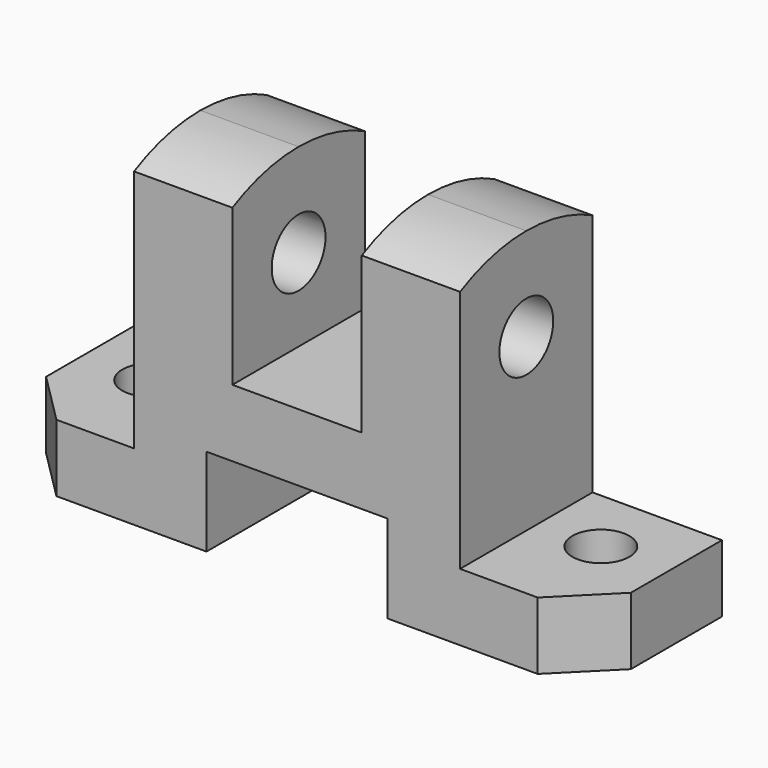
from build123d import *

# Parameters (mm, degrees)
F0_W     = 113
F0_H     = 64
F1_DEPTH = 32
F2_W     = 17.5
F2_H     = 17
F2_W_2   = 12.5
F2_H_2   = 34
F2_W_3   = 25
F2_H_3   = 51
F3_DEPTH = 32.001
F5_DEPTH = 88.001
F6_R     = 5.5
F7_DEPTH = 64.001
F8_R     = 6.5
F9_DEPTH = 88.001


with BuildPart() as f1:
    # F0 (on Front) → F1 (new body)
    with BuildSketch(Plane.XZ):
        with Locations((56.5, 32)):
            Rectangle(F0_W, F0_H)
    extrude(amount=F1_DEPTH)

    # F2 (on face) → F3 (cut, through all)
    with BuildSketch(Plane.XZ.offset(32)):
        with Locations((47.75, 8.5)):
            Rectangle(F2_W, F2_H)
        with Locations((65.25, 8.5)):
            Rectangle(F2_W, F2_H)
        with Locations((50.25, 47)):
            Rectangle(F2_W_2, F2_H_2)
        with Locations((62.75, 47)):
            Rectangle(F2_W_2, F2_H_2)
        with Locations((12.5, 38.5)):
            Rectangle(F2_W_3, F2_H_3)
        with Locations((100.5, 38.5)):
            Rectangle(F2_W_3, F2_H_3)
    extrude(amount=-F3_DEPTH, mode=Mode.SUBTRACT)

    # F4 (on face) → F5 (cut, through all)
    with BuildSketch(Plane.YZ.offset(88)):
        with BuildLine():
            ThreePointArc((-32, 60.128765), (-24.230833, 63.018427), (-16, 64))
            Line((-16, 64), (-32, 64))
            Line((-32, 64), (-32, 60.128765))
        make_face()
        with BuildLine():
            ThreePointArc((-16, 64), (-7.769167, 63.018427), (0, 60.128765))
            Line((0, 60.128765), (0, 64))
            Line((0, 64), (-16, 64))
        make_face()
    extrude(amount=-F5_DEPTH, mode=Mode.SUBTRACT)

    # F6 (on Top) → F7 (cut, through all)
    with BuildSketch(Plane.XY):
        Polygon((10, -32), (0, -22), (0, -32), align=None)
        Polygon((113, -32), (113, -22), (103, -32), align=None)
        with Locations((13, -13)):
            Circle(F6_R)
        with Locations((100, -12.990381)):
            Circle(F6_R)
    extrude(amount=F7_DEPTH, mode=Mode.SUBTRACT)

    # F8 (on face) → F9 (cut, through all)
    with BuildSketch(Plane.YZ.offset(88)):
        with Locations((-16, 46)):
            Circle(F8_R)
    extrude(amount=-F9_DEPTH, mode=Mode.SUBTRACT)


solid = f1.part
